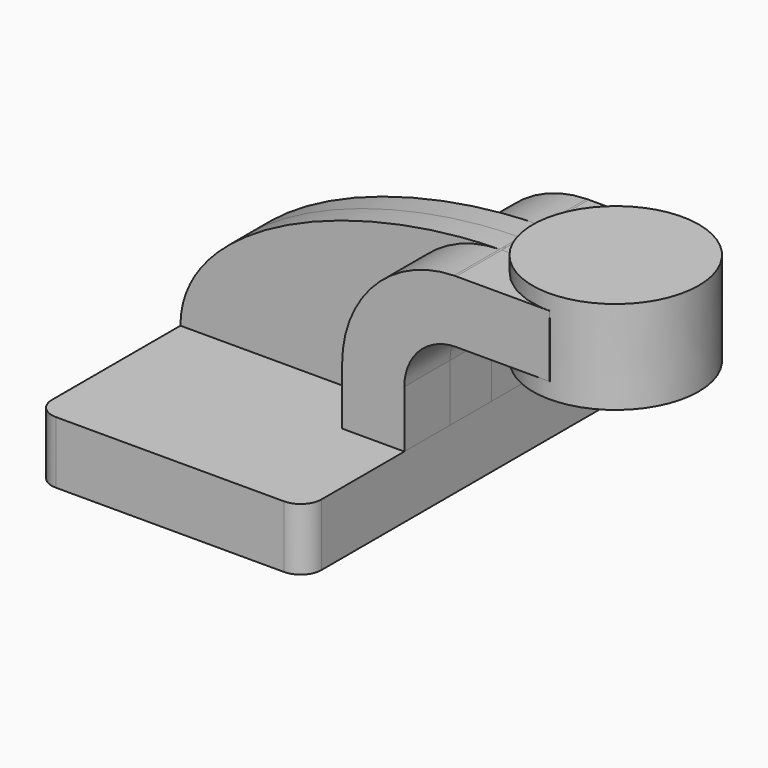
from build123d import *

# Parameters (mm, degrees)
F1_DEPTH = 63.5
F2_DEPTH = 25.4
F3_DEPTH = 7.9375
F5_R     = 6.35


with BuildPart() as f1:
    # F0 (on Front) → F1 (new body, symmetric)
    with BuildSketch(Plane.XZ):
        Polygon((-41.275, 9.525), (-41.275, -9.525), (41.275, -9.525), (41.275, 9.525), (22.225, 9.525), align=None)
    extrude(amount=F1_DEPTH, both=True)

    # F5
    f5_edges = [f1.edges().sort_by_distance(p)[0] for p in [
        (41.275, -63.5, 0),
        (-41.275, -63.5, 0),
        (41.275, 63.5, 0),
        (-41.275, 63.5, 0),
    ]]
    fillet(f5_edges, radius=F5_R)


with BuildPart() as f2:
    # F0 (on Front) → F2 (new body, symmetric)
    with BuildSketch(Plane.XZ):
        with BuildLine():
            Line((22.225, 9.525), (41.275, 9.525))
            Line((41.275, 9.525), (41.275, 27.0002))
            ThreePointArc((41.275, 27.0002), (45.9246798487, 38.2255201513), (57.15, 42.8752))
            Line((57.15, 42.8752), (60.325, 42.8752))
            Line((60.325, 42.8752), (60.325, 61.9252))
            Line((60.325, 61.9252), (57.15, 61.9252))
            add(Edge.make_bspline(
                [(56.4939729044, 61.9190380885), (56.7127760108, 61.9215739664), (56.9314537489, 61.9236284118), (57.15, 61.9252)],
                knots=[110.9778167256, 110.9778167256, 110.9778167256, 110.9778167256, 111.5045361635, 111.5045361635, 111.5045361635, 111.5045361635], degree=3))
            ThreePointArc((56.4939729044, 61.9190380885), (32.2234341383, 51.4628641914), (22.225, 27.0002))
            Line((22.225, 27.0002), (22.225, 9.525))
        make_face()
        Polygon((85.7104724294, 61.9252), (60.325, 61.9252), (60.325, 42.8752), (85.7447144318, 42.8752), align=None)
    extrude(amount=F2_DEPTH, both=True)


with BuildPart() as f3:
    # F0 (on Front) → F3 (new body, symmetric)
    with BuildSketch(Plane.XZ):
        with BuildLine():
            add(Edge.make_bspline(
                [(-41.275, 9.525), (-41.2734856062, 39.4782437782), (10.3929762491, 61.3847380846), (56.4939729044, 61.9190380885)],
                knots=[0, 0, 0, 0, 110.9778167256, 110.9778167256, 110.9778167256, 110.9778167256], degree=3))
            Line((-41.275, 9.525), (22.225, 9.525))
            Line((22.225, 9.525), (22.225, 27.0002))
            ThreePointArc((22.225, 27.0002), (32.2234341383, 51.4628641914), (56.4939729044, 61.9190380885))
        make_face()
        with BuildLine():
            Line((22.225, 9.525), (41.275, 9.525))
            Line((41.275, 9.525), (41.275, 27.0002))
            ThreePointArc((41.275, 27.0002), (45.9246798487, 38.2255201513), (57.15, 42.8752))
            Line((57.15, 42.8752), (60.325, 42.8752))
            Line((60.325, 42.8752), (60.325, 61.9252))
            Line((60.325, 61.9252), (57.15, 61.9252))
            add(Edge.make_bspline(
                [(56.4939729044, 61.9190380885), (56.7127760108, 61.9215739664), (56.9314537489, 61.9236284118), (57.15, 61.9252)],
                knots=[110.9778167256, 110.9778167256, 110.9778167256, 110.9778167256, 111.5045361635, 111.5045361635, 111.5045361635, 111.5045361635], degree=3))
            ThreePointArc((56.4939729044, 61.9190380885), (32.2234341383, 51.4628641914), (22.225, 27.0002))
            Line((22.225, 27.0002), (22.225, 9.525))
        make_face()
    extrude(amount=F3_DEPTH, both=True)


with BuildPart() as f4:
    # F0 (on Front) → F4 (revolve)
    with BuildSketch(Plane.XZ):
        Polygon((85.7019347568, 66.675), (85.7104724294, 61.9252), (94.5120291833, 61.9252), (111.125, 61.9252), (111.125, 66.675), align=None)
        Polygon((94.5120291833, 61.9252), (85.7104724294, 61.9252), (85.7447144318, 42.8752), (85.7532977604, 42.8752), (111.125, 42.8752), (111.125, 61.9252), align=None)
        Polygon((85.7532977604, 42.8752), (85.7447144318, 42.8752), (85.7532977604, 38.1), (111.125, 38.1), (111.125, 42.8752), align=None)
    revolve(axis=Axis((85.7276162586, 0, 52.3875), (0.0017974775, 0, -0.9999983845)))


solid = Compound([f1.part, f2.part, f3.part, f4.part])
